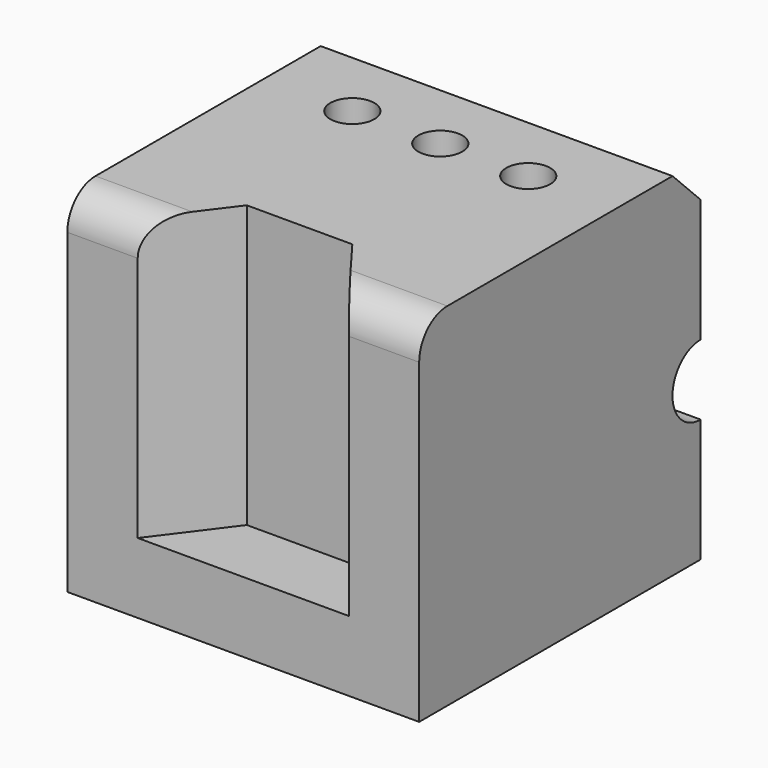
from build123d import *

# Parameters (mm, degrees)
F0_W     = 100
F0_H     = 100
F0_R     = 6.25
F1_DEPTH = 100
F3_DEPTH = 80
F5_DEPTH = 100
F6_SIZE  = 10
F7_R     = 10


with BuildPart() as f1:
    # F0 (on Top) → F1 (new body)
    with BuildSketch(Plane.XY):
        with Locations((50, -50)):
            Rectangle(F0_W, F0_H)
        with Locations((25, -30)):
            Circle(F0_R, mode=Mode.SUBTRACT)
        with Locations((50, -30)):
            Circle(F0_R, mode=Mode.SUBTRACT)
        with Locations((75, -30)):
            Circle(F0_R, mode=Mode.SUBTRACT)
    extrude(amount=F1_DEPTH)

    # F2 (on face) → F3 (cut)
    with BuildSketch(Plane.XY.offset(100)):
        Polygon((35, -80), (20, -100), (80, -100), (65, -80), align=None)
    extrude(amount=-F3_DEPTH, mode=Mode.SUBTRACT)

    # F4 (on face) → F5 (cut)
    with BuildSketch(Plane(origin=(0, 0, 0), x_dir=(0, -1, 0), z_dir=(-1, 0, 0))):
        with BuildLine():
            Line((0, 55), (0, 35))
            ThreePointArc((0, 35), (10, 45), (0, 55))
        make_face()
    extrude(amount=-F5_DEPTH, mode=Mode.SUBTRACT)

    # F6
    f6_edges = [f1.edges().sort_by_distance(p)[0] for p in [
        (50, 0, 100),
    ]]
    chamfer(f6_edges, length=F6_SIZE)

    # F7
    f7_edges = [f1.edges().sort_by_distance(p)[0] for p in [
        (90, -100, 100),
        (10, -100, 100),
    ]]
    fillet(f7_edges, radius=F7_R)


solid = f1.part
